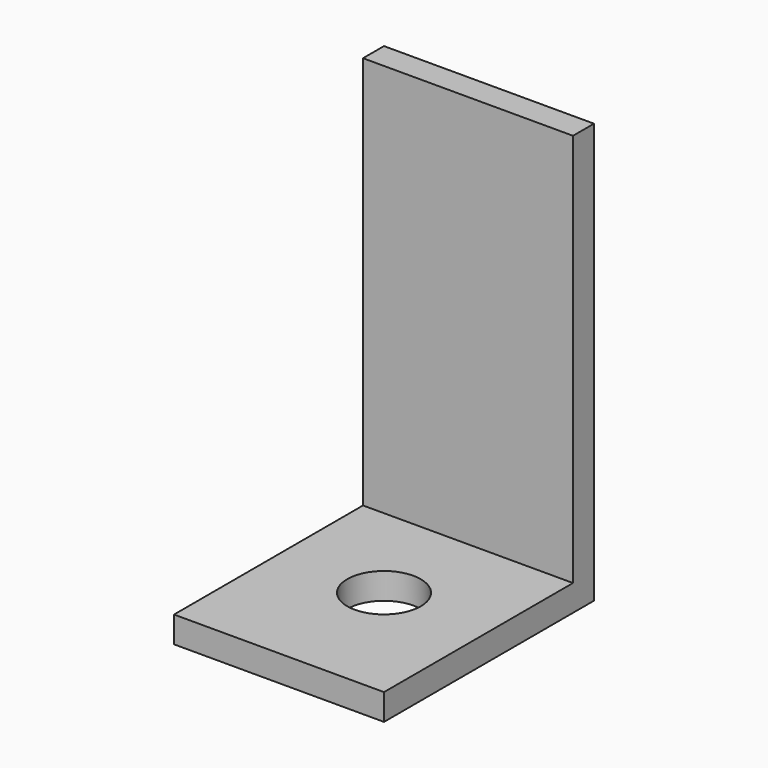
from build123d import *

# Parameters (mm, degrees)
SKETCH_W     = 8
SKETCH_H     = 10
PAD_DEPTH    = 1
SKETCH001_W  = 8
SKETCH001_H  = 1
PAD001_DEPTH = 15
SKETCH002_R  = 1.4
POCKET_DEPTH = 1


with BuildPart() as part:
    # Sketch → Pad (new body)
    with BuildSketch(Plane.XY):
        Rectangle(SKETCH_W, SKETCH_H)
    extrude(amount=PAD_DEPTH)

    # Sketch001 (on Face6 of Pad) → Pad001 (join)
    with BuildSketch(Plane.XY.offset(1)):
        with Locations((0, 4.5)):
            Rectangle(SKETCH001_W, SKETCH001_H)
    extrude(amount=PAD001_DEPTH)

    # Sketch002 (on Face5 of Pad001) → Pocket (cut)
    with BuildSketch(Plane.XY.offset(1)):
        Circle(SKETCH002_R)
    extrude(amount=-POCKET_DEPTH, mode=Mode.SUBTRACT)


solid = part.part
